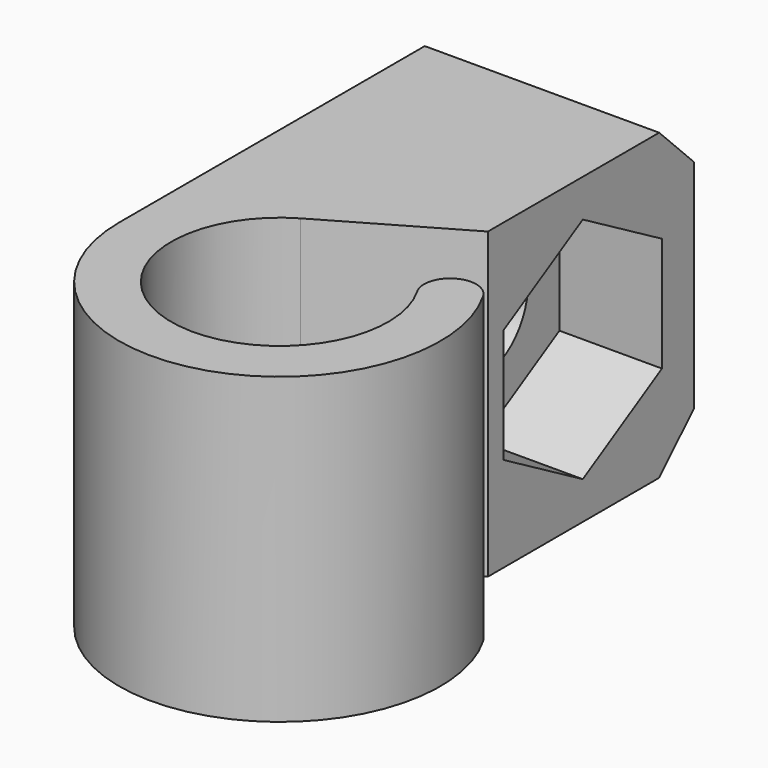
from build123d import *

# Parameters (mm, degrees)
F1_DEPTH = 4.445
F2_R     = 1.75
F3_DEPTH = 6.859
F5_DEPTH = 3
F6_SIZE  = 1.27


with BuildPart() as f1:
    # F0 (on Top) → F1 (new body, symmetric)
    with BuildSketch(Plane.XY):
        with BuildLine():
            Line((2.159, 12.446), (-4.699, 12.446))
            Line((-4.699, 12.446), (-4.699, 0))
            ThreePointArc((-4.699, 0), (1.2161906929, -4.5388854577), (4.0694533724, 2.3495))
            ThreePointArc((4.0694533724, 2.3495), (3.0285420147, 2.6284113577), (2.749630657, 1.5875))
            ThreePointArc((2.749630657, 1.5875), (-0.8217504682, -3.0668144985), (-1.5875, 2.749630657))
            Line((-1.5875, 2.749630657), (2.159, 4.9126734405))
            Line((2.159, 4.9126734405), (2.159, 12.446))
        make_face()
    extrude(amount=F1_DEPTH, both=True)

    # F2 (on face) → F3 (cut, through all)
    with BuildSketch(Plane.YZ.offset(2.159)):
        with Locations((8.382, 0)):
            Circle(F2_R)
    extrude(amount=-F3_DEPTH, mode=Mode.SUBTRACT)

    # F4 (on face) → F5 (cut)
    with BuildSketch(Plane.YZ.offset(2.159)):
        Polygon((11.2776, -1.6717754395), (11.2776, 1.6717754395), (8.382, 3.3435508789), (5.4864, 1.6717754395), (5.4864, -1.6717754395), (8.382, -3.3435508789), align=None)
    extrude(amount=-F5_DEPTH, mode=Mode.SUBTRACT)

    # F6
    f6_edges = [f1.edges().sort_by_distance(p)[0] for p in [
        (-1.27, 12.446, -4.445),
        (-1.27, 12.446, 4.445),
    ]]
    chamfer(f6_edges, length=F6_SIZE)


solid = f1.part
